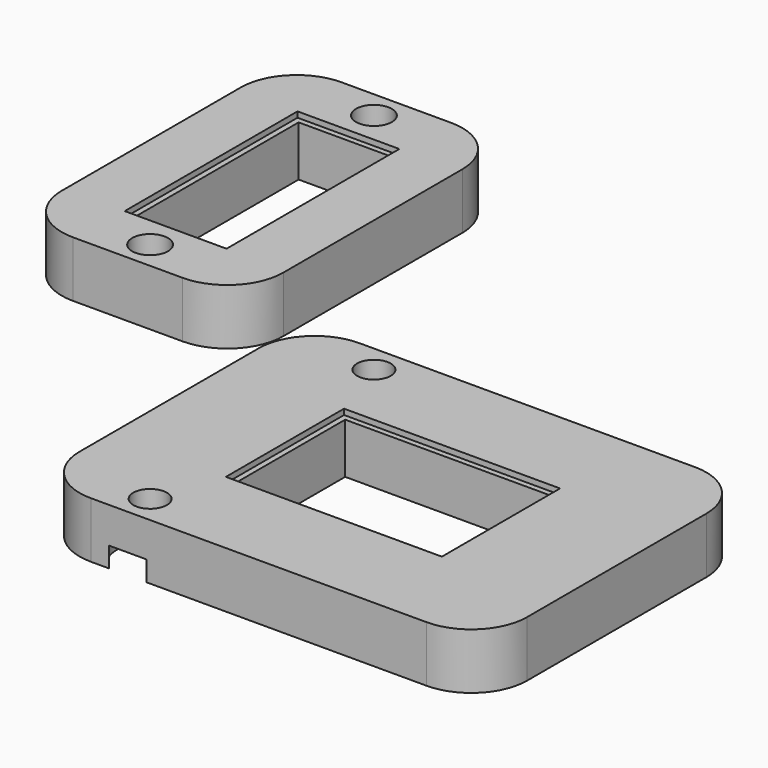
from build123d import *

# Parameters (mm, degrees)
F1_DEPTH       = 5
F0_W           = 0.5
F0_H           = 0.5
F0_W_2         = 5.35
F2_DEPTH       = 4.5
F3_R           = 5
F4_D           = 3
F4_DEPTH       = 10
F4_CBORE_D     = 6
F4_CBORE_DEPTH = 1.8
F4_TIP         = 0.9012909285
F6_W           = 19.8
F6_H           = 30
F6_W_2         = 9.1
F6_H_2         = 19.3
F7_DEPTH       = 5
F6_W_3         = 8.1
F6_H_3         = 18.3
F8_DEPTH       = 4.5
F9_R           = 5
F10_D          = 3.2
F10_DEPTH      = 10
F10_TIP        = 0.9613769904


with BuildPart() as f1:
    # F0 (on Top) → F1 (new body)
    with BuildSketch(Plane.XY):
        Polygon((9.65, -6.6), (-1.8, -6.6), (-1.8, -15), (20, -15), (20, 15), (-1.8, 15), (-1.8, 6.6), (9.65, 6.6), align=None)
        Polygon((-7.65, -6.6), (-9.65, -6.6), (-9.65, 6.6), (-7.65, 6.6), (-7.65, 9.15), (-15.75, 9.15), (-15.75, -9.15), (-7.65, -9.15), align=None)
        Polygon((-7.15, -6.6), (-7.65, -6.6), (-7.65, -9.15), (-15.75, -9.15), (-15.75, 9.15), (-7.65, 9.15), (-7.65, 6.6), (-7.15, 6.6), (-7.15, 9.65), (-16.25, 9.65), (-16.25, -9.65), (-7.15, -9.65), align=None)
        Polygon((-1.8, -6.6), (-7.15, -6.6), (-7.15, -9.65), (-16.25, -9.65), (-16.25, 9.65), (-7.15, 9.65), (-7.15, 6.6), (-1.8, 6.6), (-1.8, 15), (-20, 15), (-20, -15), (-1.8, -15), align=None)
    extrude(amount=F1_DEPTH)

    # F0 (on Top) → F2 (join)
    with BuildSketch(Plane.XY):
        Polygon((-9.65, 6.6), (-9.65, -6.6), (-7.65, -6.6), (-7.65, -6.1), (-9.15, -6.1), (-9.15, 6.1), (-7.65, 6.1), (-7.65, 6.6), align=None)
        with Locations((-7.4, 6.35)):
            Rectangle(F0_W, F0_H)
        Polygon((-1.8, -6.1), (-1.8, -6.6), (9.65, -6.6), (9.65, 6.6), (-1.8, 6.6), (-1.8, 6.1), (9.15, 6.1), (9.15, -6.1), align=None)
        with Locations((-7.4, -6.35)):
            Rectangle(F0_W, F0_H)
        with Locations((-4.475, -6.35)):
            Rectangle(F0_W_2, F0_H)
        with Locations((-4.475, 6.35)):
            Rectangle(F0_W_2, F0_H)
    extrude(amount=F2_DEPTH)

    # F3
    f3_edges = [f1.edges().sort_by_distance(p)[0] for p in [
        (-20, -15, 2.5),
        (20, -15, 2.5),
        (-20, 15, 2.5),
        (20, 15, 2.5),
    ]]
    fillet(f3_edges, radius=F3_R)

    # F4
    with Locations(Plane(origin=(0, 0, 0), x_dir=(1, 0, 0), z_dir=(0, 0, -1))):
        with Locations((-11.7, 12.5), (-11.7, -12.5)):
            CounterBoreHole(F4_D / 2, F4_CBORE_D / 2, F4_CBORE_DEPTH, depth=F4_DEPTH)
            with Locations((0, 0, -(F4_DEPTH + F4_TIP / 2))):  # 118° drill point
                Cone(0, F4_D / 2, F4_TIP, mode=Mode.SUBTRACT)


with BuildPart() as f7:
    # F6 (on offset) → F7 (new body)
    with BuildSketch(Plane.XY.offset(20)):
        with Locations((-11.7, 0)):
            Rectangle(F6_W, F6_H)
        with Locations((-11.7, 0)):
            Rectangle(F6_W_2, F6_H_2, mode=Mode.SUBTRACT)
    extrude(amount=F7_DEPTH)

    # F6 (on offset) → F8 (join)
    with BuildSketch(Plane.XY.offset(20)):
        with Locations((-11.7, 0)):
            Rectangle(F6_W_2, F6_H_2)
        with Locations((-11.7, 0)):
            Rectangle(F6_W_3, F6_H_3, mode=Mode.SUBTRACT)
    extrude(amount=F8_DEPTH)

    # F9
    f9_edges = [f7.edges().sort_by_distance(p)[0] for p in [
        (-1.8, 15, 22.5),
        (-21.6, 15, 22.5),
        (-21.6, -15, 22.5),
        (-1.8, -15, 22.5),
    ]]
    fillet(f9_edges, radius=F9_R)

    # F10
    with Locations(Plane(origin=(0, 0, 20), x_dir=(1, 0, 0), z_dir=(0, 0, -1))):
        with Locations((-11.7, 12.5), (-11.7, -12.5)):
            Hole(F10_D / 2, depth=F10_DEPTH)
            with Locations((0, 0, -(F10_DEPTH + F10_TIP / 2))):  # 118° drill point
                Cone(0, F10_D / 2, F10_TIP, mode=Mode.SUBTRACT)


solid = Compound([f1.part, f7.part])
